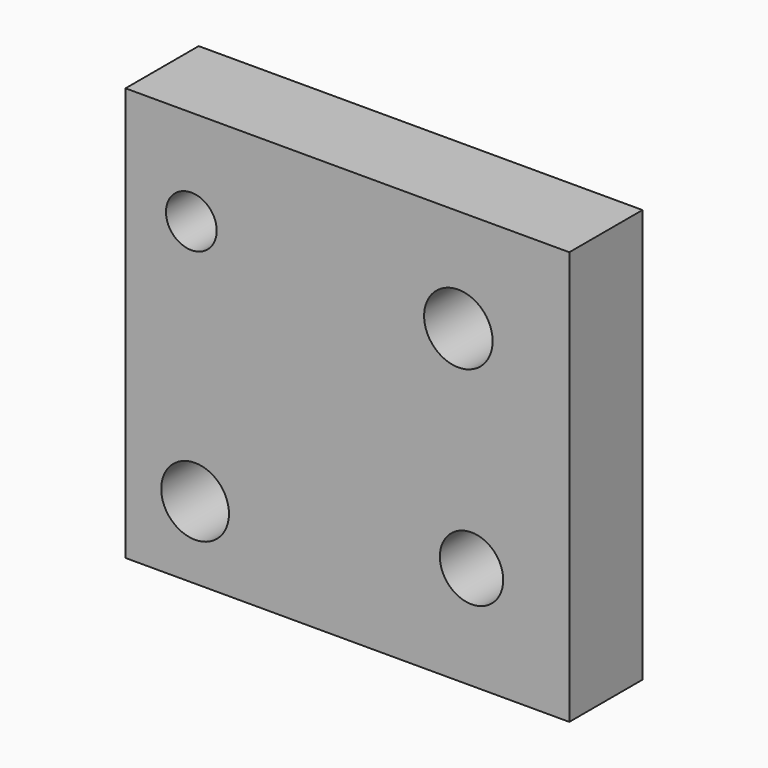
from build123d import *

# Parameters (mm, degrees)
F0_W     = 48.529239
F0_H     = 45.212935
F0_R     = 3.705071
F0_R_2   = 3.464323
F0_R_3   = 2.775839
F0_R_4   = 3.746018
F1_DEPTH = 10


with BuildPart() as f1:
    # F0 (on Front) → F1 (new body)
    with BuildSketch(Plane.XZ):
        with Locations((-1.263026, -5.951959)):
            Rectangle(F0_W, F0_H)
        with Locations((-17.919248, -20.630553)):
            Circle(F0_R, mode=Mode.SUBTRACT)
        with Locations((12.308709, -17.250935)):
            Circle(F0_R_2, mode=Mode.SUBTRACT)
        with Locations((-18.330511, 6.188568)):
            Circle(F0_R_3, mode=Mode.SUBTRACT)
        with Locations((10.869283, 5.364367)):
            Circle(F0_R_4, mode=Mode.SUBTRACT)
    extrude(amount=F1_DEPTH)


solid = f1.part
